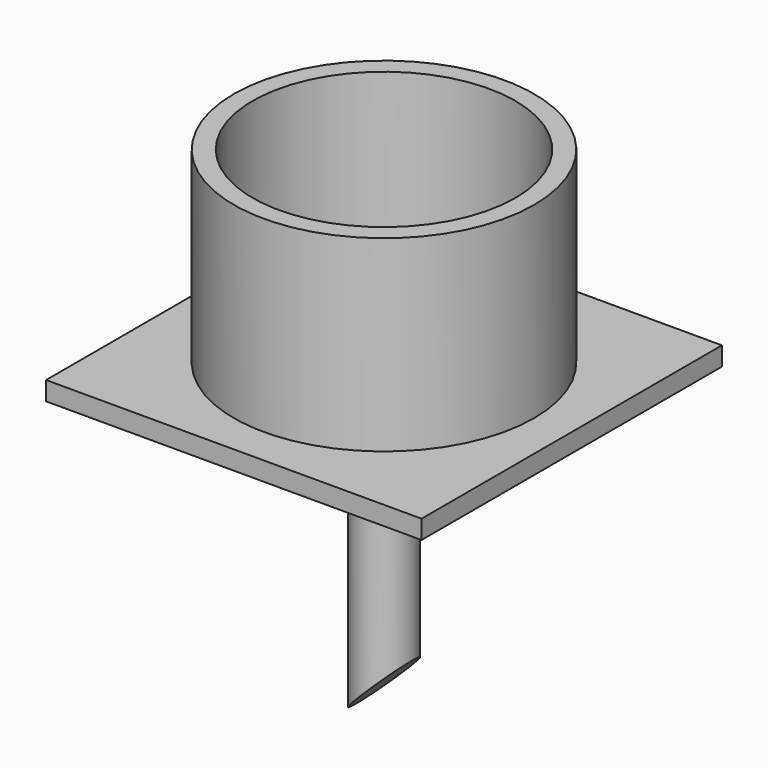
from build123d import *

# Parameters (mm, degrees)
F0_W     = 100
F0_H     = 100
F0_R     = 40
F0_R_2   = 35
F1_DEPTH = 5
F2_DEPTH = 50
F3_R     = 7.5
F4_DEPTH = 80
F6_DEPTH = 25


with BuildPart() as f1:
    # F0 (on Top) → F1 (new body)
    with BuildSketch(Plane.XY):
        Rectangle(F0_W, F0_H)
        Circle(F0_R, mode=Mode.SUBTRACT)
        Circle(F0_R)
        Circle(F0_R_2, mode=Mode.SUBTRACT)
        Circle(F0_R_2)
    extrude(amount=-F1_DEPTH)

    # F0 (on Top) → F2 (join)
    with BuildSketch(Plane.XY):
        Circle(F0_R)
        Circle(F0_R_2, mode=Mode.SUBTRACT)
    extrude(amount=F2_DEPTH)

    # F3 (on face) → F4 (join)
    with BuildSketch(Plane(origin=(0, 0, -5), x_dir=(1, 0, 0), z_dir=(0, 0, -1))):
        Circle(F3_R)
    extrude(amount=F4_DEPTH)


with BuildPart() as f6:
    # F5 (on Front) → F6 (new body, symmetric)
    with BuildSketch(Plane.XZ):
        Polygon((13.101274, -90.236664), (13.101274, -61.807115), (-15.328275, -90.236664), align=None)
    extrude(amount=F6_DEPTH, both=True)


with BuildPart() as f1_1:
    add(f1.part)

    # F7: cut F6
    add(f6.part, mode=Mode.SUBTRACT)


solid = f1_1.part
